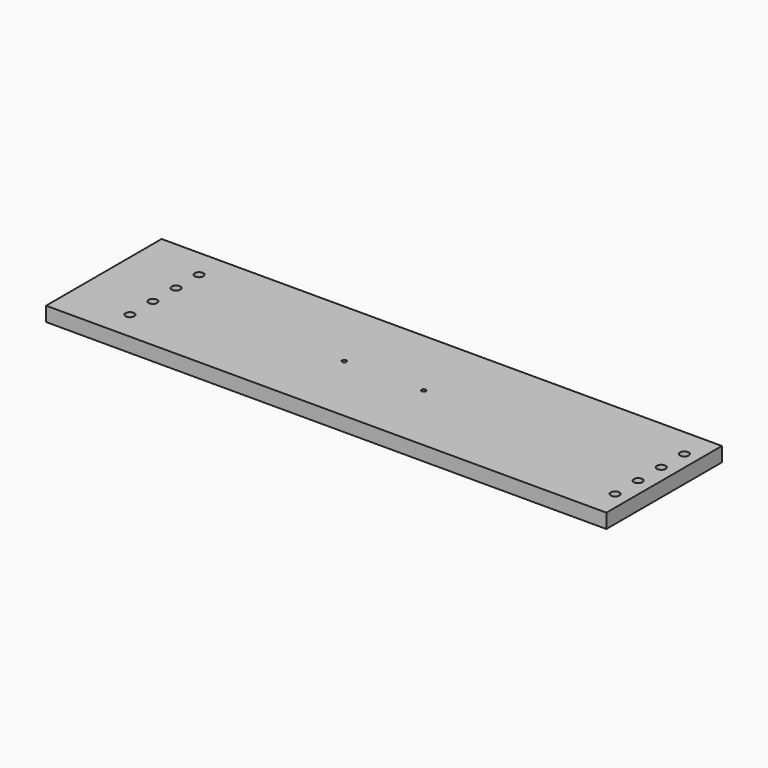
from build123d import *

# Parameters (mm, degrees)
F0_W     = 388
F0_H     = 100
F0_R     = 1.5
F1_DEPTH = 10
F2_R     = 2
F3_DEPTH = 10
F4_R     = 2
F5_DEPTH = 10
F6_R     = 3
F7_DEPTH = 25


with BuildPart() as f1:
    # F0 (on Top) → F1 (new body)
    with BuildSketch(Plane.XY):
        Rectangle(F0_W, F0_H)
        with Locations((-27.5, 0)):
            Circle(F0_R, mode=Mode.SUBTRACT)
        with Locations((27.5, 0)):
            Circle(F0_R, mode=Mode.SUBTRACT)
    extrude(amount=F1_DEPTH)

    # F2 (on face) → F3 (cut)
    with BuildSketch(Plane(origin=(0, 50, 0), x_dir=(-1, 0, 0), z_dir=(0, 1, 0))):
        with Locations((-144, 5)):
            Circle(F2_R)
        with Locations((134, 5)):
            Circle(F2_R)
        with Locations((-94, 5)):
            Circle(F2_R)
        with Locations((84, 5)):
            Circle(F2_R)
    extrude(amount=-F3_DEPTH, mode=Mode.SUBTRACT)

    # F4 (on face) → F5 (cut)
    with BuildSketch(Plane(origin=(-194, 0, 0), x_dir=(0, -1, 0), z_dir=(-1, 0, 0))):
        with Locations((-30, 5)):
            Circle(F4_R)
        with Locations((30, 5)):
            Circle(F4_R)
    extrude(amount=-F5_DEPTH, mode=Mode.SUBTRACT)

    # F6 (on face) → F7 (cut)
    with BuildSketch(Plane.XY.offset(10)):
        with Locations((184, -30)):
            Circle(F6_R)
        with Locations((184, 10)):
            Circle(F6_R)
        with Locations((184, 30)):
            Circle(F6_R)
        with Locations((184, -10)):
            Circle(F6_R)
        with Locations((-152, 30)):
            Circle(F6_R)
        with Locations((-152, 10)):
            Circle(F6_R)
        with Locations((-152, -30)):
            Circle(F6_R)
        with Locations((-152, -10)):
            Circle(F6_R)
    extrude(amount=-F7_DEPTH, mode=Mode.SUBTRACT)


solid = f1.part
